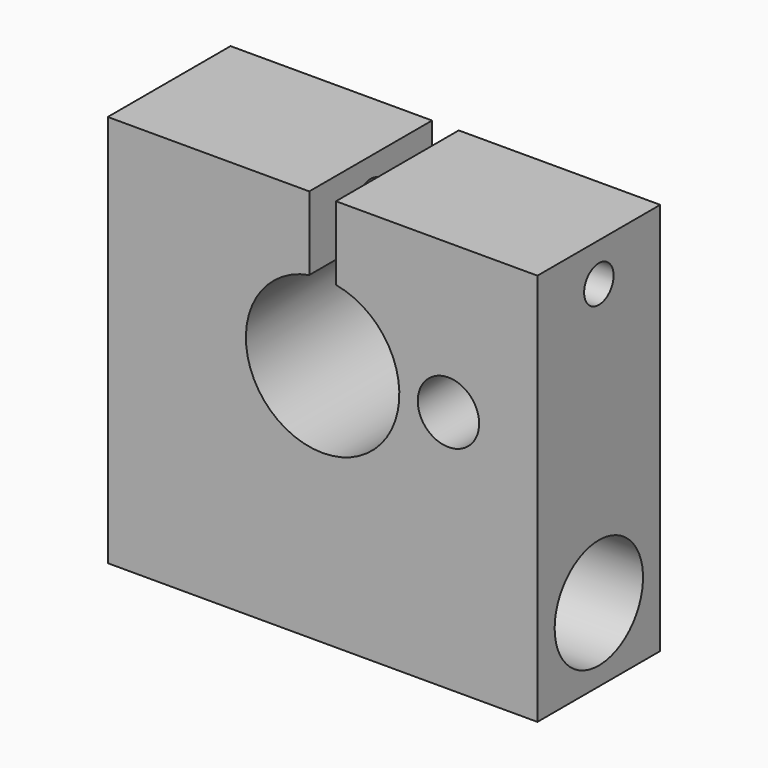
from build123d import *

# Parameters (mm, degrees)
F0_R     = 5
F1_DEPTH = 25
F3_D     = 6
F5_D     = 18


with BuildPart() as f1:
    # F0 (on Front) → F1 (new body)
    with BuildSketch(Plane.XZ):
        with BuildLine():
            ThreePointArc((22.737747, 27.324713), (20.562966, 2.515353), (18.388185, 27.324713))
            Line((18.388185, 27.324713), (18.388185, 39.324713))
            Line((18.388185, 39.324713), (-14.437034, 39.324713))
            Line((-14.437034, 39.324713), (-14.437034, -24.675287))
            Line((-14.437034, -24.675287), (20.562966, -24.675287))
            Line((20.562966, -24.675287), (55.562966, -24.675287))
            Line((55.562966, -24.675287), (55.562966, 39.324713))
            Line((55.562966, 39.324713), (22.737747, 39.324713))
            Line((22.737747, 39.324713), (22.737747, 27.324713))
        make_face()
        with Locations((41.062966, 15.015353)):
            Circle(F0_R, mode=Mode.SUBTRACT)
    extrude(amount=F1_DEPTH)

    # F3 (through all)
    with Locations(Plane(origin=(-14.437034, 0, 0), x_dir=(0, -1, 0), z_dir=(-1, 0, 0))):
        with Locations((12.5, 33.046592)):
            Hole(F3_D / 2)

    # F5 (through all)
    with Locations(Plane.YZ.offset(55.562966)):
        with Locations((-12.5, -12.675287)):
            Hole(F5_D / 2)


solid = f1.part
